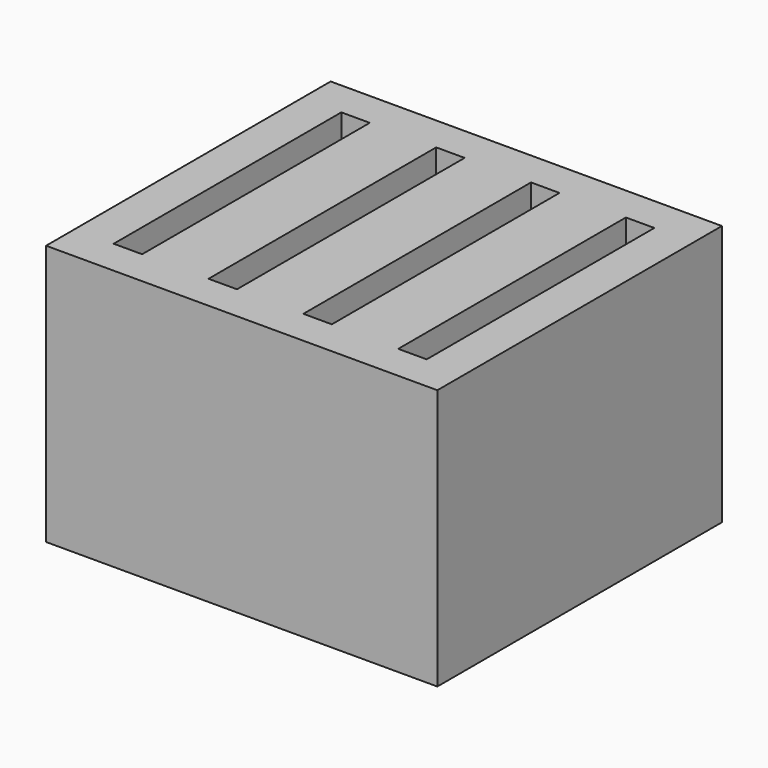
from build123d import *

# Parameters (mm, degrees)
BOX007_W     = 2.4
BOX007_H     = 24
BOX007_DEPTH = 30
BOX008_W     = 2.4
BOX008_H     = 24
BOX008_DEPTH = 30
BOX009_W     = 2.4
BOX009_H     = 24
BOX009_DEPTH = 30
BOX_W        = 2.4
BOX_H        = 24
BOX_DEPTH    = 30
BOX004_W     = 33
BOX004_H     = 30
BOX004_DEPTH = 22


with BuildPart() as box007:
    # Box007 → Box007 (new body)
    with BuildSketch(Plane(origin=(11.3, 3, 0), x_dir=(1, 0, 0), z_dir=(0, 0, 1))):
        with Locations((1.2, 12)):
            Rectangle(BOX007_W, BOX007_H)
    extrude(amount=BOX007_DEPTH)


with BuildPart() as box008:
    # Box008 → Box008 (new body)
    with BuildSketch(Plane(origin=(19.3, 3, 0), x_dir=(1, 0, 0), z_dir=(0, 0, 1))):
        with Locations((1.2, 12)):
            Rectangle(BOX008_W, BOX008_H)
    extrude(amount=BOX008_DEPTH)


with BuildPart() as box009:
    # Box009 → Box009 (new body)
    with BuildSketch(Plane(origin=(27.3, 3, 0), x_dir=(1, 0, 0), z_dir=(0, 0, 1))):
        with Locations((1.2, 12)):
            Rectangle(BOX009_W, BOX009_H)
    extrude(amount=BOX009_DEPTH)


with BuildPart() as fusion:
    # Box → Box (new body)
    with BuildSketch(Plane(origin=(3.3, 3, 0), x_dir=(1, 0, 0), z_dir=(0, 0, 1))):
        with Locations((1.2, 12)):
            Rectangle(BOX_W, BOX_H)
    extrude(amount=BOX_DEPTH)

    # Fusion: union Box007, Box008, Box009
    add(box007.part)
    add(box008.part)
    add(box009.part)


with BuildPart() as fusion_1:
    # Fusion placement: moved
    add(fusion.part.moved(Location((0, 0, 3))))


with BuildPart() as cut:
    # Box004 → Box004 (new body)
    with BuildSketch(Plane.XY):
        with Locations((16.5, 15)):
            Rectangle(BOX004_W, BOX004_H)
    extrude(amount=BOX004_DEPTH)

    # Cut: cut Fusion
    add(fusion_1.part, mode=Mode.SUBTRACT)


solid = cut.part
